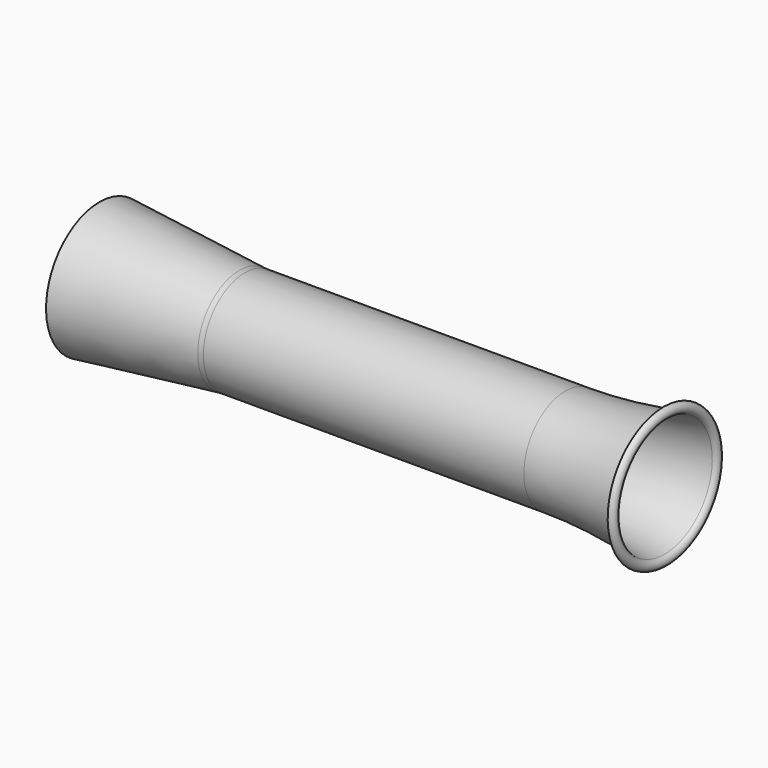
from build123d import *


with BuildPart() as f1:
    # F0 (on Front) → F1 (revolve)
    with BuildSketch(Plane.XZ):
        with BuildLine():
            Line((457.2, 50.8), (142.691429, 50.8))
            ThreePointArc((142.691429, 50.8), (140.032762, 50.86962), (137.381383, 51.078288))
            Line((137.381383, 51.078288), (0, 65.517653))
            Line((0, 65.517653), (0, 63.5))
            Line((0, 63.5), (137.213427, 49.078288))
            ThreePointArc((137.213427, 49.078288), (138.538843, 48.956513), (139.866994, 48.869505))
            ThreePointArc((139.866994, 48.869505), (141.194779, 48.817379), (142.523473, 48.8))
            Line((142.523473, 48.8), (457.2, 48.8))
            ThreePointArc((457.2, 48.8), (506.20293, 51.235989), (554.722671, 58.519935))
            ThreePointArc((554.722671, 58.519935), (558.774955, 64.00382), (553.72, 68.58))
            Line((553.72, 68.58), (553.72, 66.58))
            ThreePointArc((553.72, 66.58), (556.784815, 63.805465), (554.327919, 60.48059))
            ThreePointArc((554.327919, 60.48059), (506.004576, 53.226128), (457.2, 50.8))
        make_face()
    revolve(axis=Axis((60.622651, 0, 0), (1, 0, 0)))


solid = f1.part
